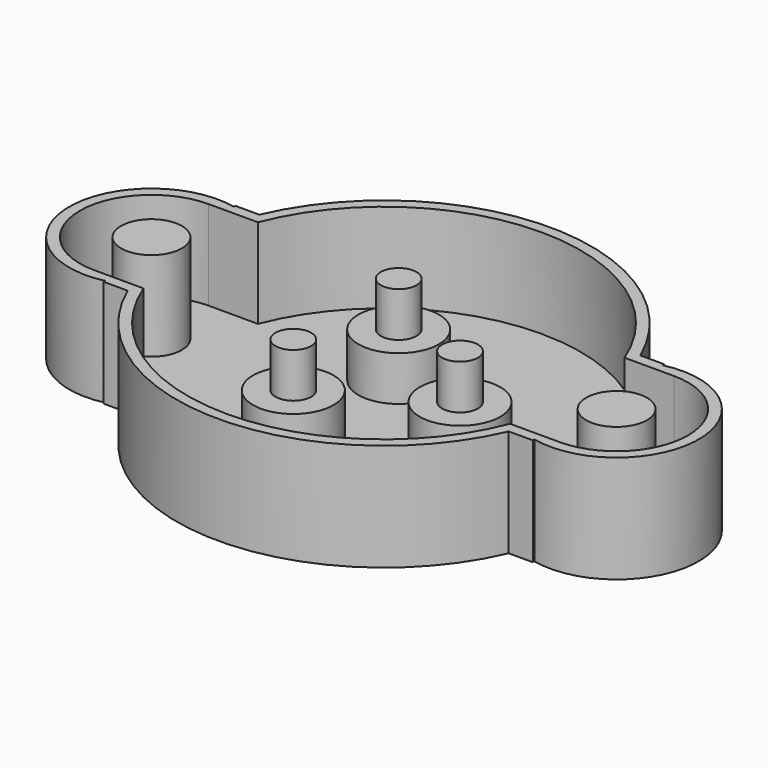
from build123d import *

# Parameters (mm, degrees)
CYLINDER150_R       = 1.7
CYLINDER150_DEPTH   = 11
CYLINDER151_R       = 1.7
CYLINDER151_DEPTH   = 11
CYLINDER157_R       = 2.25
CYLINDER157_DEPTH   = 8
CYLINDER156_R       = 1
CYLINDER156_DEPTH   = 5
CYLINDER147_R       = 1
CYLINDER147_DEPTH   = 1
ARRAY_COUNT         = 3
BOX_W               = 3
BOX_H               = 8
BOX_DEPTH           = 5
CYLINDER153_R       = 11
CYLINDER153_DEPTH   = 5
BOX001_W            = 3
BOX001_H            = 8
BOX001_DEPTH        = 5
CYLINDER158_R       = 4
CYLINDER158_DEPTH   = 5
CYLINDER_R          = 4
CYLINDER_DEPTH      = 5
CUT_PLACEMENT_ANGLE = 180
BOX008_W            = 2
BOX008_H            = 9.2
BOX008_DEPTH        = 6
CYLINDER198_R       = 11.6
CYLINDER198_DEPTH   = 6
CYLINDER199_R       = 4.6
CYLINDER199_DEPTH   = 6
CYLINDER200_R       = 4.6
CYLINDER200_DEPTH   = 6
BOX009_W            = 2
BOX009_H            = 9.2
BOX009_DEPTH        = 6


with BuildPart() as obj1:
    # Cylinder150 → Cylinder150 (new body)
    with BuildSketch(Plane(origin=(-13, 0, 0), x_dir=(1, 0, 0), z_dir=(0, 0, 1))):
        Circle(CYLINDER150_R)
    extrude(amount=CYLINDER150_DEPTH)


with BuildPart() as obj2:
    # Cylinder151 → Cylinder151 (new body)
    with BuildSketch(Plane(origin=(13, 0, 0), x_dir=(1, 0, 0), z_dir=(0, 0, 1))):
        Circle(CYLINDER151_R)
    extrude(amount=CYLINDER151_DEPTH)


with BuildPart() as sealsubtraction:
    # Cylinder157 → Cylinder157 (new body)
    with BuildSketch(Plane.XY.offset(2.5)):
        Circle(CYLINDER157_R)
    extrude(amount=CYLINDER157_DEPTH)


with BuildPart() as bottomwireoutlet:
    # Cylinder156 → Cylinder156 (new body)
    with BuildSketch(Plane.XY.offset(-2)):
        Circle(CYLINDER156_R)
    extrude(amount=CYLINDER156_DEPTH)


with BuildPart() as fusion013:
    # Cylinder147 → Cylinder147 (new body)
    with BuildSketch(Plane.XY.offset(4.5)):
        Circle(CYLINDER147_R)
    extrude(amount=CYLINDER147_DEPTH)

    # Fusion: union SealSubtraction, BottomWireOutlet
    add(sealsubtraction.part)
    add(bottomwireoutlet.part)


with BuildPart() as fusion013_1:
    # Fusion placement: moved
    add(fusion013.part.moved(Location((4.25, 0, 0))))

    # Array: Fusion013 ×3 about axis
    array_axis = Axis((0, 0, 0), (0, 0, 1))


with BuildPart() as fusion013_2:
    add(fusion013_1.part)
    for i in range(1, ARRAY_COUNT):
        add(fusion013_1.part.rotate(array_axis, i * 360 / ARRAY_COUNT))

    # Fusion013: union obj1, obj2
    add(obj1.part)
    add(obj2.part)


with BuildPart() as mountcube1:
    # Box → Box (new body)
    with BuildSketch(Plane(origin=(-13, -4, 0), x_dir=(1, 0, 0), z_dir=(0, 0, 1))):
        with Locations((1.5, 4)):
            Rectangle(BOX_W, BOX_H)
    extrude(amount=BOX_DEPTH)


with BuildPart() as body:
    # Cylinder153 → Cylinder153 (new body)
    with BuildSketch(Plane.XY):
        Circle(CYLINDER153_R)
    extrude(amount=CYLINDER153_DEPTH)


with BuildPart() as mountcube002:
    # Box001 → Box001 (new body)
    with BuildSketch(Plane(origin=(10, -4, 0), x_dir=(1, 0, 0), z_dir=(0, 0, 1))):
        with Locations((1.5, 4)):
            Rectangle(BOX001_W, BOX001_H)
    extrude(amount=BOX001_DEPTH)


with BuildPart() as mountflange002:
    # Cylinder158 → Cylinder158 (new body)
    with BuildSketch(Plane(origin=(13, 0, 0), x_dir=(1, 0, 0), z_dir=(0, 0, 1))):
        Circle(CYLINDER158_R)
    extrude(amount=CYLINDER158_DEPTH)


with BuildPart() as cut:
    # Cylinder → Cylinder (new body)
    with BuildSketch(Plane(origin=(-13, 0, 0), x_dir=(1, 0, 0), z_dir=(0, 0, 1))):
        Circle(CYLINDER_R)
    extrude(amount=CYLINDER_DEPTH)

    # Fusion012: union MountCube1, Body, MountCube002, MountFlange002
    add(mountcube1.part)
    add(body.part)
    add(mountcube002.part)
    add(mountflange002.part)

    # Cut: cut Fusion013
    add(fusion013_2.part, mode=Mode.SUBTRACT)


with BuildPart() as cut_1:
    # Cut placement: moved
    add(cut.part.moved(Location((0, 0, 6))).rotate(Axis((0, 0, 6), (1, 0, 0)), CUT_PLACEMENT_ANGLE))


with BuildPart() as cube:
    # Box008 → Box008 (new body)
    with BuildSketch(Plane(origin=(-12, -4.6, 0), x_dir=(1, 0, 0), z_dir=(0, 0, 1))):
        with Locations((1, 4.6)):
            Rectangle(BOX008_W, BOX008_H)
    extrude(amount=BOX008_DEPTH)


with BuildPart() as cylinder:
    # Cylinder198 → Cylinder198 (new body)
    with BuildSketch(Plane.XY):
        Circle(CYLINDER198_R)
    extrude(amount=CYLINDER198_DEPTH)


with BuildPart() as cylinder016:
    # Cylinder199 → Cylinder199 (new body)
    with BuildSketch(Plane(origin=(-13, 0, 0), x_dir=(1, 0, 0), z_dir=(0, 0, 1))):
        Circle(CYLINDER199_R)
    extrude(amount=CYLINDER199_DEPTH)


with BuildPart() as cylinder017:
    # Cylinder200 → Cylinder200 (new body)
    with BuildSketch(Plane(origin=(13, 0, 0), x_dir=(1, 0, 0), z_dir=(0, 0, 1))):
        Circle(CYLINDER200_R)
    extrude(amount=CYLINDER200_DEPTH)


with BuildPart() as cut027:
    # Box009 → Box009 (new body)
    with BuildSketch(Plane(origin=(10, -4.6, 0), x_dir=(1, 0, 0), z_dir=(0, 0, 1))):
        with Locations((1, 4.6)):
            Rectangle(BOX009_W, BOX009_H)
    extrude(amount=BOX009_DEPTH)

    # Fusion014: union Cube, Cylinder, Cylinder016, Cylinder017
    add(cube.part)
    add(cylinder.part)
    add(cylinder016.part)
    add(cylinder017.part)

    # Cut027: cut Cut
    add(cut_1.part, mode=Mode.SUBTRACT)


solid = cut027.part
